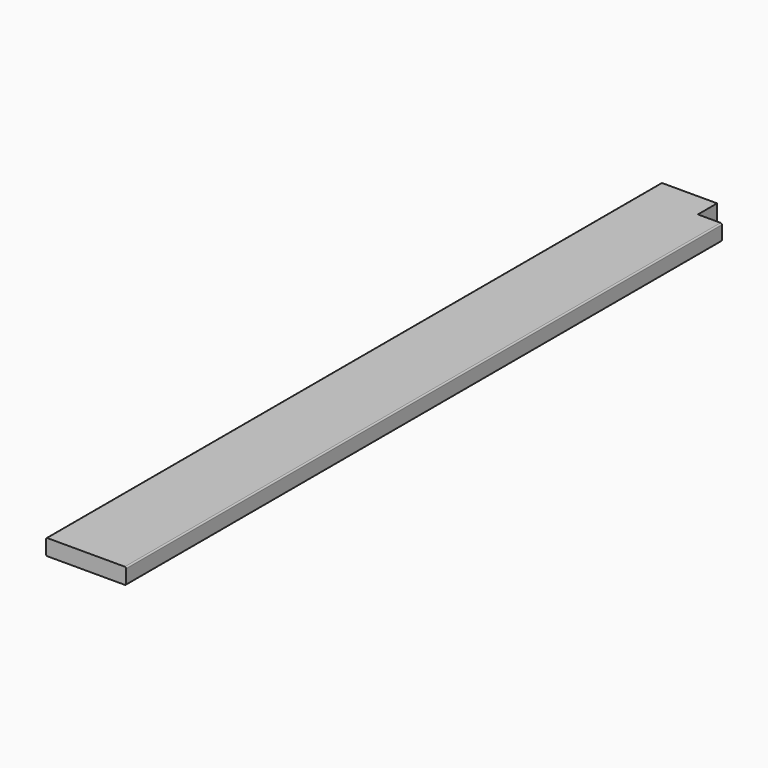
from build123d import *

# Parameters (mm, degrees)
F1_DEPTH      = 1828.8
F2_W          = 57.15
F2_H          = 57.15
F3_DEPTH      = 19.051
F3_DEPTH_BACK = 19.051


with BuildPart() as f1:
    # F0 (on Front) → F1 (new body)
    with BuildSketch(Plane.XZ):
        with BuildLine():
            ThreePointArc((95.25, 15.875), (94.320064, 18.120064), (92.075, 19.05))
            Line((92.075, 19.05), (-92.075, 19.05))
            ThreePointArc((-92.075, 19.05), (-94.320064, 18.120064), (-95.25, 15.875))
            Line((-95.25, 15.875), (-95.25, -15.875))
            ThreePointArc((-95.25, -15.875), (-94.320064, -18.120064), (-92.075, -19.05))
            Line((-92.075, -19.05), (92.075, -19.05))
            ThreePointArc((92.075, -19.05), (94.320064, -18.120064), (95.25, -15.875))
            Line((95.25, -15.875), (95.25, 15.875))
        make_face()
    extrude(amount=F1_DEPTH)

    # F2 (on Top) → F3 (cut, two sides)
    with BuildSketch(Plane.XY) as f3_sk:
        with Locations((66.675, -28.575)):
            Rectangle(F2_W, F2_H)
    extrude(amount=F3_DEPTH, mode=Mode.SUBTRACT)
    extrude(f3_sk.sketch, amount=-F3_DEPTH_BACK, mode=Mode.SUBTRACT)


solid = f1.part
